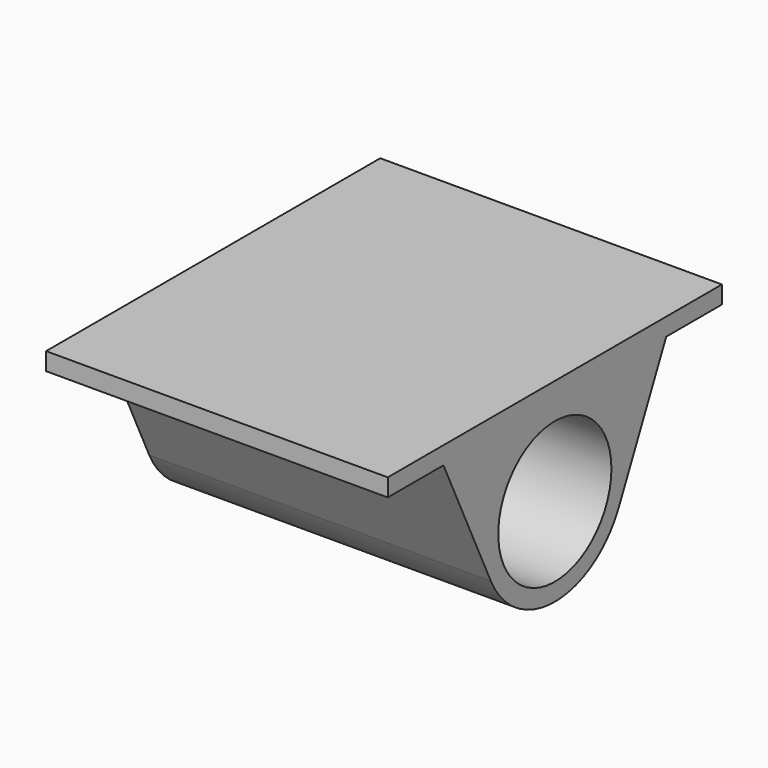
from build123d import *

# Parameters (mm, degrees)
F0_R     = 25.4
F1_DEPTH = 61.35


with BuildPart() as f1:
    # F0 (on Right) → F1 (new body, symmetric)
    with BuildSketch(Plane.YZ):
        Polygon((75, 38.1), (-75, 38.1), (-75, 31.75), (-50, 31.75), (-1.82e-08, 31.75), (50, 31.75), (75, 31.75), align=None)
        with BuildLine():
            Line((-1.82e-08, 31.75), (-50, 31.75))
            Line((-50, 31.75), (-28.7355912274, -13.5028995706))
            ThreePointArc((-28.7355912274, -13.5028995706), (-26.8027942749, 17.0197743538), (-1.82e-08, 31.75))
        make_face()
        with BuildLine():
            ThreePointArc((31.75, 0), (22.4506402963, 22.4506403091), (-1.82e-08, 31.75))
            ThreePointArc((-1.82e-08, 31.75), (-26.8027942749, 17.0197743538), (-28.7355912274, -13.5028995706))
            ThreePointArc((-28.7355912274, -13.5028995706), (0, -31.75), (28.7355912274, -13.5028995706))
            ThreePointArc((28.7355912274, -13.5028995706), (30.9872354484, -6.9176397178), (31.75, 0))
        make_face()
        Circle(F0_R, mode=Mode.SUBTRACT)
        with BuildLine():
            Line((28.7355912274, -13.5028995706), (50, 31.75))
            Line((50, 31.75), (-1.82e-08, 31.75))
            ThreePointArc((-1.82e-08, 31.75), (22.4506402963, 22.4506403091), (31.75, 0))
            ThreePointArc((31.75, 0), (30.9872354484, -6.9176397178), (28.7355912274, -13.5028995706))
        make_face()
    extrude(amount=F1_DEPTH, both=True)


solid = f1.part
